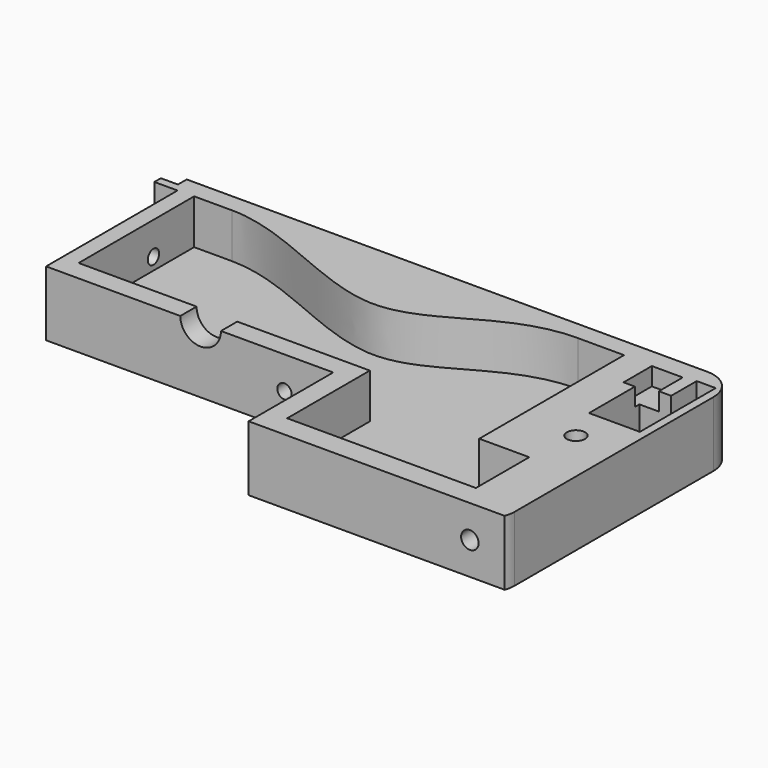
from build123d import *

# Parameters (mm, degrees)
SKETCH_R        = 2.25
PAD_DEPTH       = 16
POCKET_DEPTH    = 21
SKETCH002_R     = 1.75
POCKET001_DEPTH = 23
SKETCH003_R     = 1.75
SKETCH003_R_2   = 2.15
POCKET002_DEPTH = 46
SKETCH005_R     = 8
POCKET004_DEPTH = 5
POCKET005_DEPTH = 4.4
SKETCH007_W     = 10.5
SKETCH007_H     = 21
POCKET006_DEPTH = 6
POCKET007_DEPTH = 18
SKETCH009_R     = 1.75
POCKET008_DEPTH = 86


with BuildPart() as part:
    # Sketch → Pad (new body)
    with BuildSketch(Plane.XY):
        with BuildLine():
            Line((126.5, 107.1), (-1.5, 107.1))
            Line((-1.5, 107.1), (-1.5, 104.4))
            Line((-1.5, 104.4), (-5.7, 104.4))
            Line((-5.7, 104.4), (-5.7, 102.4))
            Line((-5.7, 102.4), (0, 102.4))
            Line((0, 102.4), (0, 62))
            Line((0, 62), (70.6, 62))
            Line((70.6, 62), (70.6, 36))
            Line((70.6, 36), (75.6, 36))
            Line((75.6, 36), (133.571068, 36))
            ThreePointArc((133.571068, 36), (133.891989, 37.231735), (134, 38.5))
            Line((134, 38.5), (134, 99.6))
            ThreePointArc((134, 99.6), (131.803301, 104.903301), (126.5, 107.1))
        make_face()
        with Locations((123.4, 70.6)):
            Circle(SKETCH_R, mode=Mode.SUBTRACT)
    extrude(amount=PAD_DEPTH)

    # Sketch001 (on DatumPlane) → Pocket (cut)
    with BuildSketch(Plane.XY.offset(5)):
        Polygon((128.6, 101.8), (131, 101.8), (131, 79.9), (120.7, 79.9), (120.7, 93.6), (120.7, 93.9), (124.3, 93.9), (128.6, 93.9), align=None)
        with BuildLine():
            add(Edge.make_bspline(
                [(13.289069, 102.5), (27.487875, 102.5), (63.575842, 75.600151), (81.110251, 102.5), (98.331885, 102.5)],
                knots=[0, 0, 0, 0, 0.5, 1, 1, 1, 1], degree=3))
            Line((98.331885, 102.5), (109.7, 102.5))
            Line((109.7, 102.5), (109.7, 58))
            Line((109.7, 58), (122, 58))
            Line((122, 58), (122, 41.6))
            Line((122, 41.6), (80, 41.6))
            Line((80, 41.6), (75.6, 41.6))
            Line((75.6, 41.6), (75.6, 67))
            Line((75.6, 67), (4, 67))
            Line((4, 67), (4, 102.5))
            Line((4, 102.5), (13.289069, 102.5))
        make_face()
    extrude(amount=POCKET_DEPTH, mode=Mode.SUBTRACT)

    # Sketch002 → Pocket001 (cut)
    with BuildSketch(Plane.YZ):
        with Locations((12, 8)):
            Circle(SKETCH002_R)
        with Locations((60, 8)):
            Circle(SKETCH002_R)
        with Locations((90, 8)):
            Circle(SKETCH002_R)
    extrude(amount=POCKET001_DEPTH, mode=Mode.SUBTRACT)

    # Sketch003 → Pocket002 (cut)
    with BuildSketch(Plane.XZ):
        with Locations((58.6, 8)):
            Circle(SKETCH003_R)
        with Locations((8, 8)):
            Circle(SKETCH003_R)
        with Locations((125, 8)):
            Circle(SKETCH003_R_2)
    extrude(amount=-POCKET002_DEPTH, mode=Mode.SUBTRACT)

    # Sketch005 (on DatumPlane) → Pocket004 (cut, symmetric)
    with BuildSketch(Plane.XY.offset(5)):
        with Locations((123.4, 70.6)):
            Circle(SKETCH005_R)
    extrude(amount=POCKET004_DEPTH, both=True, mode=Mode.SUBTRACT)

    # Sketch006 (on DatumPlane) → Pocket005 (cut)
    with BuildSketch(Plane.XY.offset(16)):
        Polygon((116.7, 102.3), (124.3, 102.3), (124.3, 93.9), (124.3, 93.6), (120.7, 93.6), (116.7, 93.6), align=None)
    extrude(amount=-POCKET005_DEPTH, mode=Mode.SUBTRACT)

    # Sketch007 (on DatumPlane) → Pocket006 (cut)
    with BuildSketch(Plane.XY.offset(5)):
        with Locations((125.75, 91.3)):
            Rectangle(SKETCH007_W, SKETCH007_H)
    extrude(amount=-POCKET006_DEPTH, mode=Mode.SUBTRACT)

    # Sketch008 (on DatumPlane) → Pocket007 (cut)
    with BuildSketch(Plane.XY.offset(5)):
        Polygon((127.328613, 102.8), (132, 102.8), (132, 79.494476), (119.5, 79.494476), (119.5, 94.960373), (127.328613, 94.960373), align=None)
    extrude(amount=POCKET007_DEPTH, mode=Mode.SUBTRACT)

    # Sketch009 → Pocket008 (cut)
    with BuildSketch(Plane.XZ):
        with Locations((58.6, 8)):
            Circle(SKETCH009_R)
        with BuildLine():
            ThreePointArc((33, 16), (38, 11), (43, 16))
            Line((43, 16), (43, 31.673506))
            ThreePointArc((43, 31.673506), (38, 36.673506), (33, 31.673506))
            Line((33, 31.673506), (33, 16))
        make_face()
    extrude(amount=-POCKET008_DEPTH, mode=Mode.SUBTRACT)


solid = part.part
